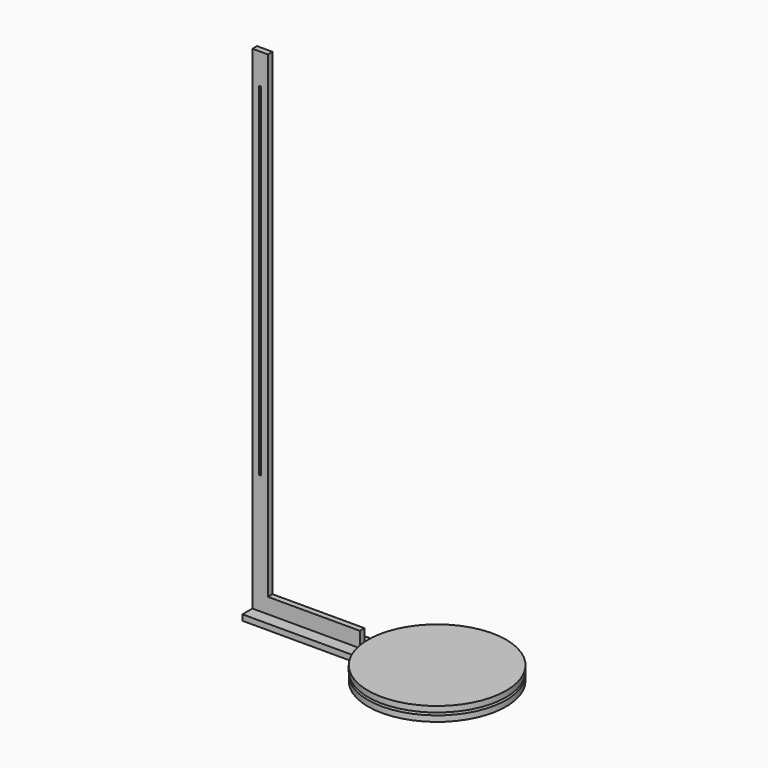
from build123d import *

# Parameters (mm, degrees)
F0_R      = 228.6
F1_DEPTH  = 19.05
F2_R      = 101.6
F3_DEPTH  = 50.8
F4_R      = 133.35
F4_R_2    = 107.95
F5_DEPTH  = 8.382
F7_DEPTH  = 19.05
F8_W      = 50.8
F8_H      = 19.05
F9_DEPTH  = 50.8
F11_DEPTH = 19.05
F12_W     = 6.35
F12_H     = 1134.2298353541
F13_DEPTH = 19.05


with BuildPart() as f1:
    # F0 (on Top) → F1 (new body)
    with BuildSketch(Plane.XY):
        Circle(F0_R)
    extrude(amount=F1_DEPTH)


with BuildPart() as f3:
    # F2 (on face) → F3 (new body)
    with BuildSketch(Plane(origin=(0, 0, 0), x_dir=(1, 0, 0), z_dir=(0, 0, -1))):
        Circle(F2_R)
        Circle(F2_R)
    extrude(amount=F3_DEPTH)


with BuildPart() as f5:
    # F4 (on face) → F5 (new body)
    with BuildSketch(Plane(origin=(0, 0, 0), x_dir=(1, 0, 0), z_dir=(0, 0, -1))):
        Circle(F4_R)
        Circle(F4_R_2, mode=Mode.SUBTRACT)
    extrude(amount=F5_DEPTH)


with BuildPart() as f7:
    # F6 (on face) → F7 (new body)
    with BuildSketch(Plane(origin=(0, 0, -8.382), x_dir=(1, 0, 0), z_dir=(0, 0, -1))):
        with BuildLine():
            Line((-603.8840954398, -50.8), (-222.8840954398, -50.8))
            ThreePointArc((-222.8840954398, -50.8), (228.6, 0), (-222.8840954398, 50.8))
            Line((-222.8840954398, 50.8), (-603.8840954398, 50.8))
            Line((-603.8840954398, 50.8), (-603.8840954398, -50.8))
        make_face()
    extrude(amount=F7_DEPTH)


with BuildPart() as f9:
    # F8 (on face) → F9 (new body)
    with BuildSketch(Plane.XY.offset(-8.382)):
        with Locations((-273.6840954398, 0)):
            Rectangle(F8_W, F8_H)
    extrude(amount=F9_DEPTH)

    # F10 (on face) → F11 (join)
    with BuildSketch(Plane.XZ.offset(9.525)):
        Polygon((-603.8840954398, -8.382), (-299.0840954398, -8.382), (-299.0840954398, 42.418), (-553.0840954398, 42.418), (-553.0840954398, 1623.370885849), (-603.8840954398, 1623.370885849), align=None)
    extrude(amount=-F11_DEPTH)

    # F12 (on face) → F13 (cut, through all)
    with BuildSketch(Plane.XZ.offset(9.525)):
        with Locations((-578.4840954398, 955.4074853659)):
            Rectangle(F12_W, F12_H)
    extrude(amount=-F13_DEPTH, mode=Mode.SUBTRACT)


solid = Compound([f1.part, f3.part, f5.part, f7.part, f9.part])
